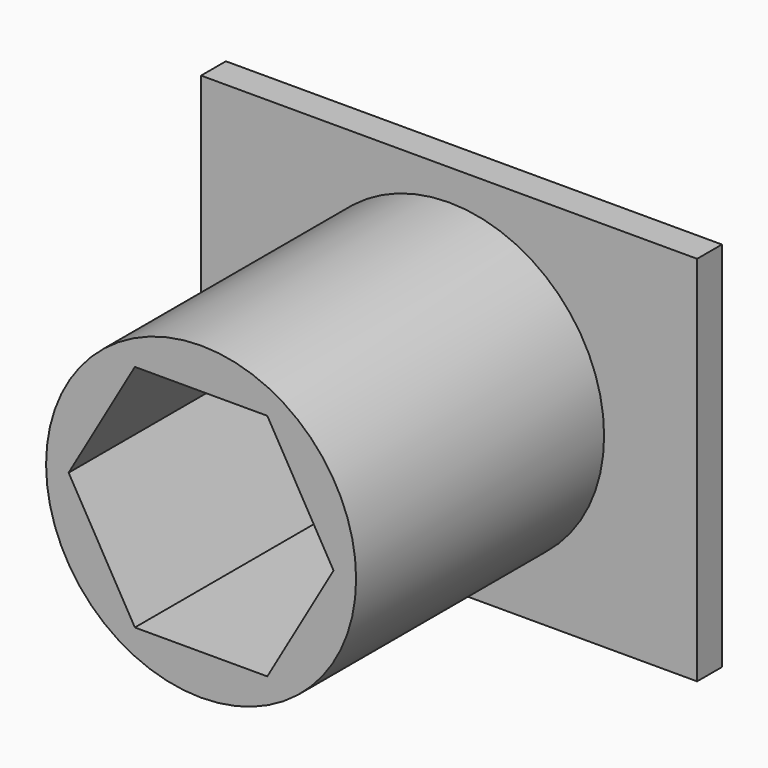
from build123d import *

# Parameters (mm, degrees)
F0_W     = 80
F0_H     = 60
F1_DEPTH = 5
F2_R     = 25
F3_DEPTH = 50
F5_DEPTH = 50


with BuildPart() as f1:
    # F0 (on Front) → F1 (new body)
    with BuildSketch(Plane.XZ):
        Rectangle(F0_W, F0_H)
    extrude(amount=F1_DEPTH)

    # F2 (on face) → F3 (join)
    with BuildSketch(Plane.XZ.offset(5)):
        Circle(F2_R)
    extrude(amount=F3_DEPTH)

    # F4 (on face) → F5 (cut)
    with BuildSketch(Plane.XZ.offset(55)):
        Polygon((10.68098, -18.5), (21.36196, 0), (10.68098, 18.5), (-10.68098, 18.5), (-21.36196, 0), (-10.68098, -18.5), align=None)
    extrude(amount=-F5_DEPTH, mode=Mode.SUBTRACT)


solid = f1.part
